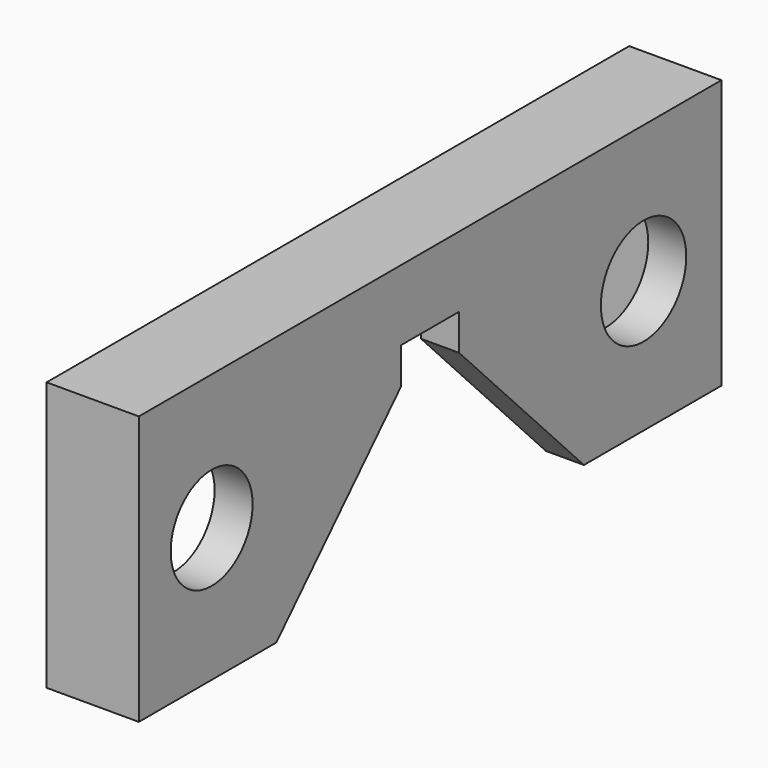
from build123d import *

# Parameters (mm, degrees)
F0_R     = 2.83
F0_R_2   = 2.95
F2_DEPTH = 2.1
F3_DEPTH = 3


with BuildPart() as f2:
    # F0 (on Right) → F2 (new body)
    with BuildSketch(Plane.YZ):
        Polygon((20.13, 14.87), (-20.13, 14.87), (-20.13, 0), (-10.63, 0), (-2, 8.97), (-2, 10.97), (2, 10.97), (2, 8.97), (10.63, 0), (20.13, 0), align=None)
        with Locations((-15.1, 7.4)):
            Circle(F0_R, mode=Mode.SUBTRACT)
        with Locations((14.75, 7.28)):
            Circle(F0_R_2, mode=Mode.SUBTRACT)
    extrude(amount=F2_DEPTH)

    # F1 (on Right) → F3 (join)
    with BuildSketch(Plane.YZ):
        Polygon((20.13, 0), (20.13, 14.87), (-20.13, 14.87), (-20.13, 0), (-18.13, 0), (-18.13, 12.87), (18.13, 12.87), (18.13, 0), align=None)
    extrude(amount=-F3_DEPTH)


solid = f2.part
